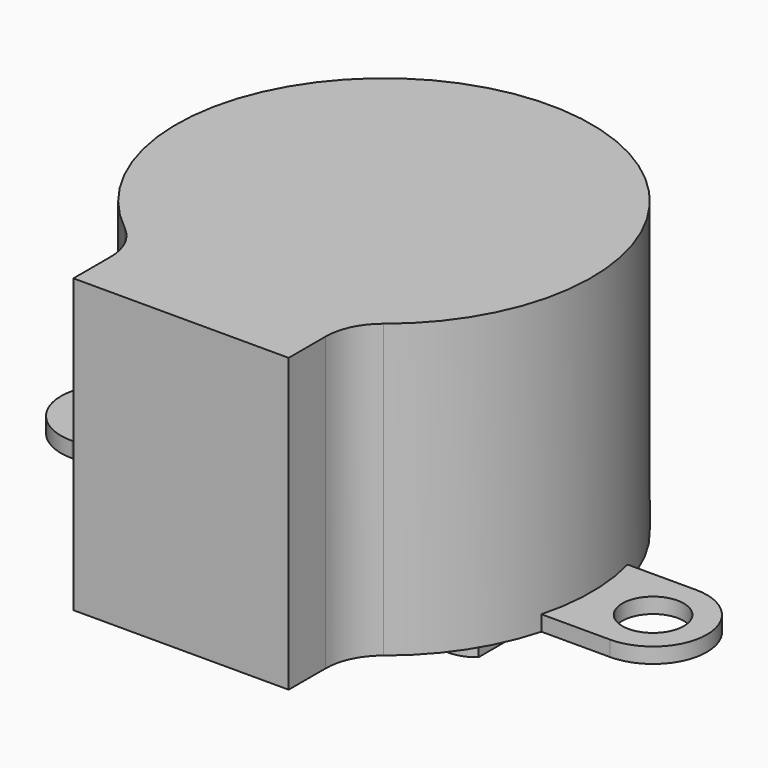
from build123d import *

# Parameters (mm, degrees)
F1_DEPTH = 19
F2_R     = 2
F3_DEPTH = 1
F4_R     = 4.5
F5_DEPTH = 1
F7_DEPTH = 8


with BuildPart() as f1:
    # F0 (on Top) → F1 (new body)
    with BuildSketch(Plane.XY):
        with BuildLine():
            ThreePointArc((7, -13.5), (7.3731475524, -11.8648488215), (8.4187082405, -10.5534521158))
            ThreePointArc((8.4187082405, -10.5534521158), (0, 13.5), (-8.4187082405, -10.5534521158))
            ThreePointArc((-8.4187082405, -10.5534521158), (-7.3731475524, -11.8648488215), (-7, -13.5))
            Line((-7, -13.5), (-7, -16.5))
            Line((-7, -16.5), (7, -16.5))
            Line((7, -16.5), (7, -13.5))
        make_face()
    extrude(amount=F1_DEPTH)

    # F2 (on Top) → F3 (join)
    with BuildSketch(Plane.XY):
        with BuildLine():
            ThreePointArc((13.0384048104, 3.5), (13.5, 0), (13.0384048104, -3.5))
            Line((13.0384048104, -3.5), (17.5, -3.5))
            ThreePointArc((17.5, -3.5), (21, 0), (17.5, 3.5))
            Line((17.5, 3.5), (13.0384048104, 3.5))
        make_face()
        with Locations((17.5, 0)):
            Circle(F2_R, mode=Mode.SUBTRACT)
        with BuildLine():
            Line((-17.5, -3.5), (-13.0384048104, -3.5))
            ThreePointArc((-13.0384048104, -3.5), (-13.5, 0), (-13.0384048104, 3.5))
            Line((-13.0384048104, 3.5), (-17.5, 3.5))
            ThreePointArc((-17.5, 3.5), (-21, 0), (-17.5, -3.5))
        make_face()
        with Locations((-17.5, 0)):
            Circle(F2_R, mode=Mode.SUBTRACT)
    extrude(amount=F3_DEPTH)

    # F4 (on face) → F5 (join)
    with BuildSketch(Plane(origin=(0, 0, 0), x_dir=(1, 0, 0), z_dir=(0, 0, -1))):
        with Locations((0, -7.5)):
            Circle(F4_R)
    extrude(amount=F5_DEPTH)

    # F6 (on face) → F7 (join)
    with BuildSketch(Plane(origin=(0, 0, -1), x_dir=(1, 0, 0), z_dir=(0, 0, -1))):
        with BuildLine():
            Line((-1.5, -5.8229490169), (-1.5, -9.1770509831))
            ThreePointArc((-1.5, -9.1770509831), (0, -9.75), (1.5, -9.1770509831))
            Line((1.5, -9.1770509831), (1.5, -5.8229490169))
            ThreePointArc((1.5, -5.8229490169), (0, -5.25), (-1.5, -5.8229490169))
        make_face()
    extrude(amount=F7_DEPTH)


solid = f1.part
